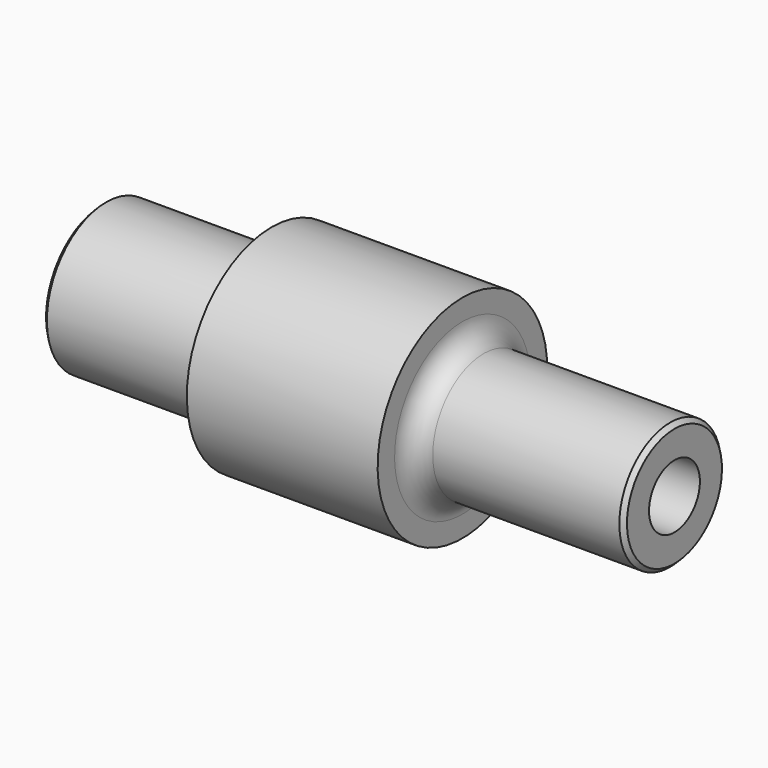
from build123d import *

# Parameters (mm, degrees)
F2_SIZE = 1
F3_R    = 5


with BuildPart() as f1:
    # F0 (on Front) → F1 (revolve)
    with BuildSketch(Plane.XZ):
        with BuildLine():
            Line((0, 17.5), (0, 7.5))
            Line((0, 7.5), (135, 7.5))
            Line((135, 7.5), (135, 15))
            Line((135, 15), (85, 15))
            Line((85, 15), (85, 25))
            Line((85, 25), (40, 25))
            Line((40, 25), (40, 20.2))
            Line((40, 20.2), (40.600523, 17.958819))
            ThreePointArc((40.600523, 17.958819), (40.42795, 17.091239), (39.634597, 16.7))
            Line((39.634597, 16.7), (37.985641, 16.7))
            Line((37.985641, 16.7), (35, 17.5))
            Line((35, 17.5), (0, 17.5))
        make_face()
    revolve(axis=Axis((67.5, 0, 0), (1, 0, 0)))

    # F2
    f2_edges = [f1.edges().sort_by_distance(p)[0] for p in [
        (0, 0, -17.5),
        (135, 0, -15),
    ]]
    chamfer(f2_edges, length=F2_SIZE)

    # F3
    f3_edges = [f1.edges().sort_by_distance(p)[0] for p in [
        (85, 0, -15),
    ]]
    fillet(f3_edges, radius=F3_R)


solid = f1.part
